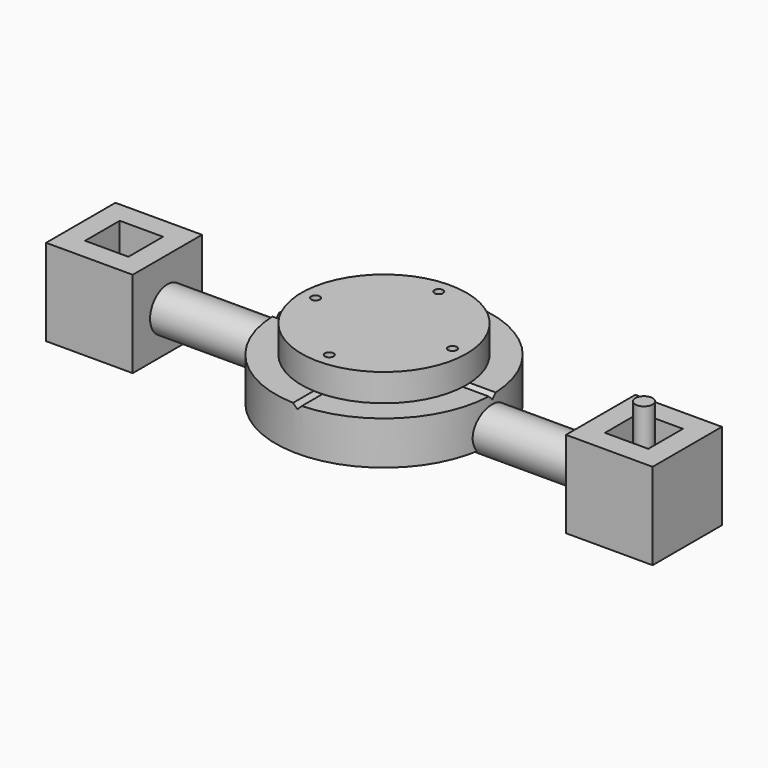
from build123d import *

# Parameters (mm, degrees)
CYLINDER001_R            = 1
CYLINDER001_DEPTH        = 10
CYLINDER_R               = 19.05
CYLINDER_DEPTH           = 6.35
BOX_W                    = 60
BOX_H                    = 10
BOX_DEPTH                = 10
BOX_PLACEMENT_ANGLE      = 45
CLONE006_PLACEMENT_ANGLE = 90
CYLINDER003_R            = 1
CYLINDER003_DEPTH        = 10
CYLINDER002_R            = 25
CYLINDER002_DEPTH        = 10
CYLINDER004_R            = 5
CYLINDER004_DEPTH        = 100
BOX002_W                 = 10
BOX002_H                 = 10
BOX002_DEPTH             = 20
BOX001_W                 = 20
BOX001_H                 = 20
BOX001_DEPTH             = 20
CYLINDER005_R            = 2
CYLINDER005_DEPTH        = 10


with BuildPart() as cylinder001:
    # Cylinder001 → Cylinder001 (new body)
    with BuildSketch(Plane(origin=(15.8, 0, 0), x_dir=(1, 0, 0), z_dir=(0, 0, 1))):
        Circle(CYLINDER001_R)
    extrude(amount=CYLINDER001_DEPTH)


with BuildPart() as cylinder002:
    # Clone base: copy of Cylinder001
    add(cylinder001.part)


with BuildPart() as cylinder002_1:
    # Clone placement: moved
    add(cylinder002.part.moved(Location((-31.6, 0, 0))))


with BuildPart() as cylinder003:
    # Clone001 base: copy of Cylinder002
    add(cylinder002_1.part)


with BuildPart() as cylinder003_1:
    # Clone001 placement: moved
    add(cylinder003.part.moved(Location((15.8, 15.8, 0))))


with BuildPart() as fusion:
    # Clone002 base: copy of Cylinder003
    add(cylinder003_1.part)


with BuildPart() as fusion_1:
    # Clone002 placement: moved
    add(fusion.part.moved(Location((0, -31.6, 0))))

    # Fusion: union Cylinder001, Cylinder002, Cylinder003
    add(cylinder001.part)
    add(cylinder002_1.part)
    add(cylinder003_1.part)


with BuildPart() as cut:
    # Cylinder → Cylinder (new body)
    with BuildSketch(Plane.XY):
        Circle(CYLINDER_R)
    extrude(amount=CYLINDER_DEPTH)

    # Cut: cut Fusion
    add(fusion_1.part, mode=Mode.SUBTRACT)


with BuildPart() as cube:
    # Box → Box (new body)
    with BuildSketch(Plane.XY):
        with Locations((30, 5)):
            Rectangle(BOX_W, BOX_H)
    extrude(amount=BOX_DEPTH)


with BuildPart() as cube_1:
    # Box placement: moved
    add(cube.part.moved(Location((-30, 0, -0.5))).rotate(Axis((-30, 0, -0.5), (1, 0, 0)), BOX_PLACEMENT_ANGLE))


with BuildPart() as fusion002:
    # Clone006 base: copy of Cube
    add(cube_1.part)


with BuildPart() as fusion002_1:
    # Clone006 placement: moved
    add(fusion002.part.moved(Location((0, 0, 0))).rotate(Axis((0, 0, 0), (0, 0, 1)), CLONE006_PLACEMENT_ANGLE))

    # Fusion002: union Cube
    add(cube_1.part)


with BuildPart() as fusion002_2:
    # Fusion002 placement: moved
    add(fusion002_1.part.moved(Location((0, 0, -0.5))))


with BuildPart() as cylinder009:
    # Cylinder003 → Cylinder003 (new body)
    with BuildSketch(Plane(origin=(15.8, 0, 0), x_dir=(1, 0, 0), z_dir=(0, 0, 1))):
        Circle(CYLINDER003_R)
    extrude(amount=CYLINDER003_DEPTH)


with BuildPart() as cylinder005:
    # Clone003 base: copy of Cylinder009
    add(cylinder009.part)


with BuildPart() as cylinder005_1:
    # Clone003 placement: moved
    add(cylinder005.part.moved(Location((-31.6, 0, 0))))


with BuildPart() as cylinder006:
    # Clone004 base: copy of Cylinder005
    add(cylinder005_1.part)


with BuildPart() as cylinder006_1:
    # Clone004 placement: moved
    add(cylinder006.part.moved(Location((15.8, 15.8, 0))))


with BuildPart() as fusion001:
    # Clone005 base: copy of Cylinder006
    add(cylinder006_1.part)


with BuildPart() as fusion001_1:
    # Clone005 placement: moved
    add(fusion001.part.moved(Location((0, -31.6, 0))))

    # Fusion001: union Cylinder009, Cylinder005, Cylinder006
    add(cylinder009.part)
    add(cylinder005_1.part)
    add(cylinder006_1.part)


with BuildPart() as cut002:
    # Cylinder002 → Cylinder002 (new body)
    with BuildSketch(Plane.XY):
        Circle(CYLINDER002_R)
    extrude(amount=CYLINDER002_DEPTH)

    # Cut001: cut Fusion001
    add(fusion001_1.part, mode=Mode.SUBTRACT)


with BuildPart() as cut002_1:
    # Cut001 placement: moved
    add(cut002.part.moved(Location((0, 0, -10))))

    # Cut002: cut Fusion002
    add(fusion002_2.part, mode=Mode.SUBTRACT)


with BuildPart() as cylinder010:
    # Cylinder004 → Cylinder004 (new body)
    with BuildSketch(Plane(origin=(-50, 0, -7), x_dir=(0, 0, -1), z_dir=(1, 0, 0))):
        Circle(CYLINDER004_R)
    extrude(amount=CYLINDER004_DEPTH)


with BuildPart() as cube003:
    # Box002 → Box002 (new body)
    with BuildSketch(Plane(origin=(55, -5, -16), x_dir=(1, 0, 0), z_dir=(0, 0, 1))):
        with Locations((5, 5)):
            Rectangle(BOX002_W, BOX002_H)
    extrude(amount=BOX002_DEPTH)


with BuildPart() as cut003:
    # Box001 → Box001 (new body)
    with BuildSketch(Plane(origin=(50, -10, -16), x_dir=(1, 0, 0), z_dir=(0, 0, 1))):
        with Locations((10, 10)):
            Rectangle(BOX001_W, BOX001_H)
    extrude(amount=BOX001_DEPTH)

    # Cut003: cut Cube003
    add(cube003.part, mode=Mode.SUBTRACT)


with BuildPart() as clone007:
    # Clone007 base: copy of Cut003
    add(cut003.part)


with BuildPart() as clone007_1:
    # Clone007 placement: moved
    add(clone007.part.moved(Location((-120, 0, 0))))


with BuildPart() as cylinder011:
    # Cylinder005 → Cylinder005 (new body)
    with BuildSketch(Plane(origin=(60, 0, 0), x_dir=(0, 1, 0), z_dir=(0, 0, 1))):
        Circle(CYLINDER005_R)
    extrude(amount=CYLINDER005_DEPTH)


solid = Compound([cut.part, cut002_1.part, cylinder010.part, cut003.part, clone007_1.part, cylinder011.part])
